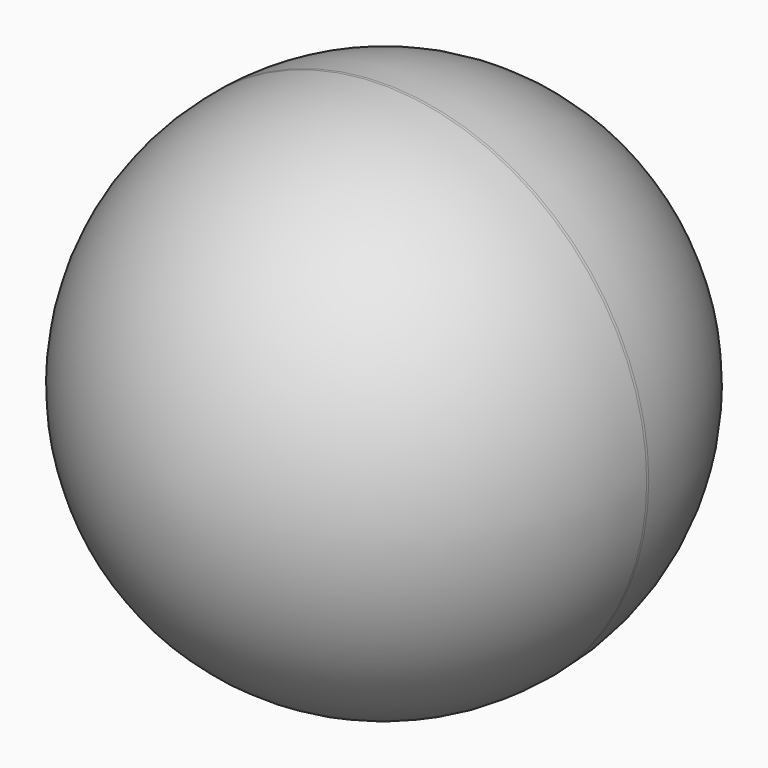
from build123d import *

# Parameters (mm, degrees)
F0_R     = 1
F1_DEPTH = 2
F2_R     = 1
F3_R     = 0.99
F4_R     = 0.35
F5_DEPTH = 0.7


with BuildPart() as f1:
    # F0 (on Front) → F1 (new body)
    with BuildSketch(Plane.XZ):
        Circle(F0_R)
    extrude(amount=F1_DEPTH)

    # F2
    f2_edges = [f1.edges().sort_by_distance(p)[0] for p in [
        (-1, -2, 0),
    ]]
    fillet(f2_edges, radius=F2_R)

    # F3
    f3_edges = [f1.edges().sort_by_distance(p)[0] for p in [
        (-1, 0, 0),
    ]]
    fillet(f3_edges, radius=F3_R)

    # F4 (on face) → F5 (cut)
    with BuildSketch(Plane(origin=(0, 0, 0), x_dir=(-1, 0, 0), z_dir=(0, 1, 0))):
        Circle(F4_R)
    extrude(amount=-F5_DEPTH, mode=Mode.SUBTRACT)


solid = f1.part
